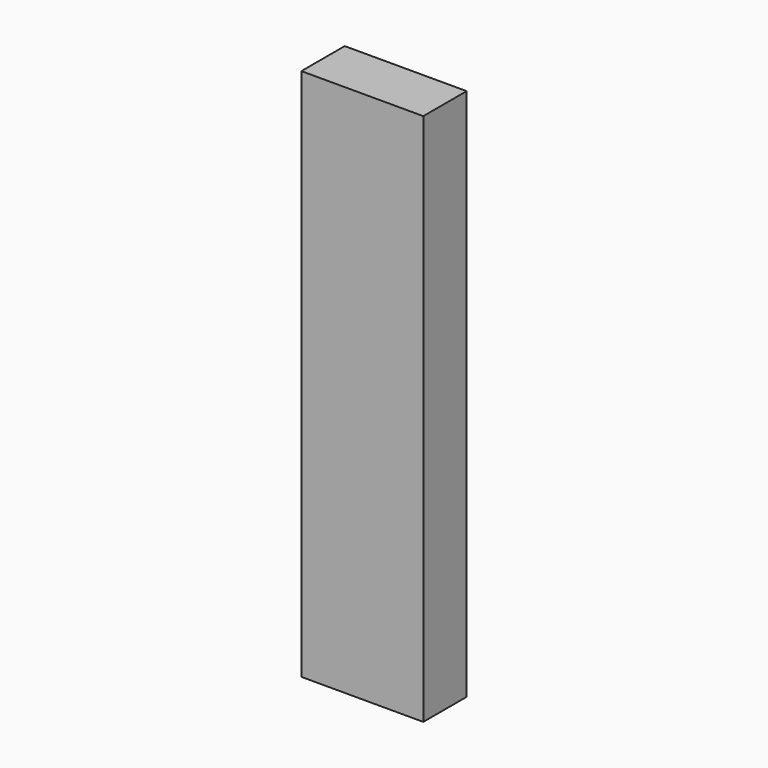
from build123d import *

# Parameters (mm, degrees)
RECTANGLE_W       = 22.86
RECTANGLE_H       = 10.16
EXTRUDE_DEPTH     = 100
CLONE_SCALE_SCALE = 0.001


with BuildPart() as extrude_body:
    # Rectangle → Extrude (new body)
    with BuildSketch(Plane(origin=(-11.43, -5.08, 0), x_dir=(1, 0, 0), z_dir=(0, 0, 1))):
        with Locations((11.43, 5.08)):
            Rectangle(RECTANGLE_W, RECTANGLE_H)
    extrude(amount=EXTRUDE_DEPTH)


with BuildPart() as scaled:
    # Clone base: copy of Extrude body
    add(extrude_body.part)


with BuildPart() as scaled_1:
    # Clone scale: moved
    add(scaled.part.scale(CLONE_SCALE_SCALE))


solid = Compound([extrude_body.part, scaled_1.part])
